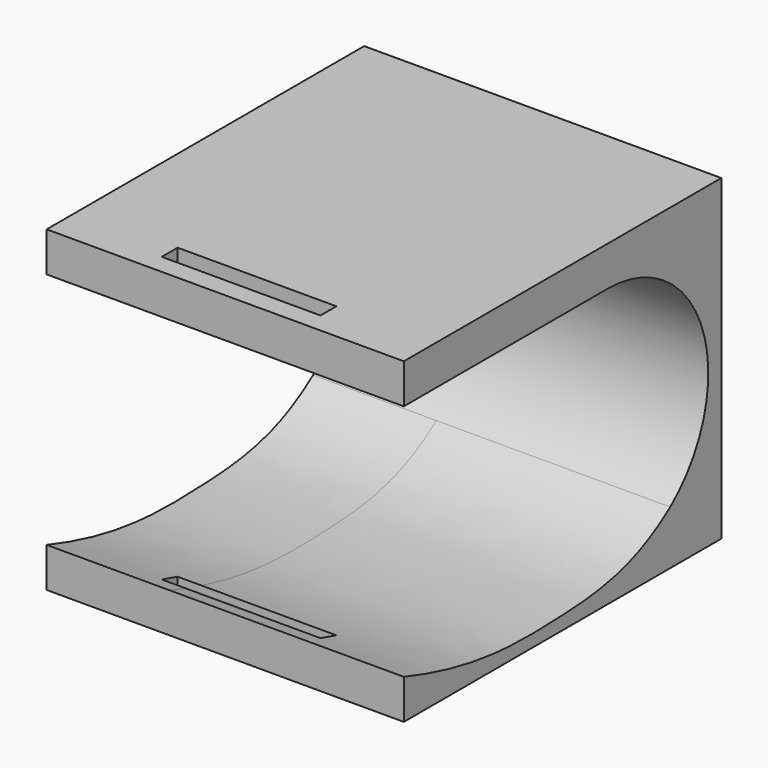
from build123d import *

# Parameters (mm, degrees)
F0_W          = 114.3
F0_H          = 101.6
F1_DEPTH      = 127
F3_DEPTH      = 39.4399856607
F3_DEPTH_BACK = 74.8620143393
F4_W          = 78.9322577574
F4_H          = 9.7147444349
F5_DEPTH      = 38.2024062272
F5_DEPTH_BACK = 63.3995939728


with BuildPart() as f1:
    # F0 (on Front) → F1 (new body)
    with BuildSketch(Plane.XZ):
        with Locations((17.7110143393, 12.5985938728)):
            Rectangle(F0_W, F0_H)
    extrude(amount=F1_DEPTH)

    # F2 (on Right) → F3 (cut, two sides)
    with BuildSketch(Plane.YZ) as f3_sk:
        with BuildLine():
            Line((-127, 50.6985938728), (-127, -25.5014061272))
            add(Edge.make_bspline(
                [(-127, -25.5014061272), (-98.9603772759, -34.7956232727), (-68.005550577, -34.5681270065), (-35.421602428, -32.3844701052), (-20.4378271917, -20.9679826113)],
                knots=[0, 0, 0, 0, 0.5357898792, 1, 1, 1, 1], degree=3))
            ThreePointArc((-20.4378271917, -20.9679826113), (-7.4607172084, 23.7360933268), (-45.4065121441, 50.6985938728))
            Line((-45.4065121441, 50.6985938728), (-127, 50.6985938728))
        make_face()
    extrude(amount=-F3_DEPTH, mode=Mode.SUBTRACT)
    extrude(f3_sk.sketch, amount=F3_DEPTH_BACK, mode=Mode.SUBTRACT)

    # F4 (on Top) → F5 (cut, two sides)
    with BuildSketch(Plane.XY) as f5_sk:
        with Locations((19.8757408652, -184.373836463)):
            Rectangle(F4_W, F4_H)
        Polygon((17.7110143393, -114.29746), (-7.6889856607, -114.29746), (-7.6889856607, -120.65), (17.7110143393, -120.65), (43.1110143393, -120.65), (43.1110143393, -114.29746), align=None)
    extrude(amount=-F5_DEPTH, mode=Mode.SUBTRACT)
    extrude(f5_sk.sketch, amount=F5_DEPTH_BACK, mode=Mode.SUBTRACT)


solid = f1.part
